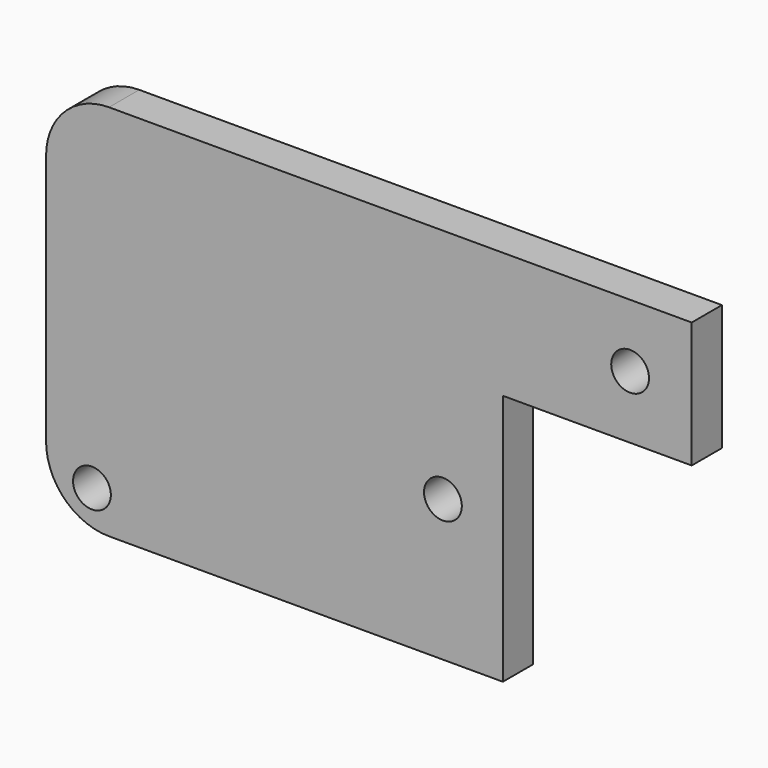
from build123d import *

# Parameters (mm, degrees)
F1_DEPTH = 3
F3_D     = 3
F4_R     = 5


with BuildPart() as f1:
    # F0 (on Front) → F1 (new body)
    with BuildSketch(Plane.XZ):
        Polygon((-45.63814, 9.742956), (-45.63814, -20.257044), (-9.356174, -20.257044), (-9.356174, -0.257044), (5.643826, -0.257044), (5.643826, 9.742956), align=None)
    extrude(amount=F1_DEPTH)

    # F3 (through all)
    with Locations(Plane.XZ.offset(3)):
        with Locations((-41.993771, -17.322723), (-14.116627, -9.033464), (0.750969, 4.742956)):
            Hole(F3_D / 2)

    # F4
    f4_edges = [f1.edges().sort_by_distance(p)[0] for p in [
        (-45.63814, -1.5, 9.742956),
        (-45.63814, -1.5, -20.257044),
    ]]
    fillet(f4_edges, radius=F4_R)


solid = f1.part
